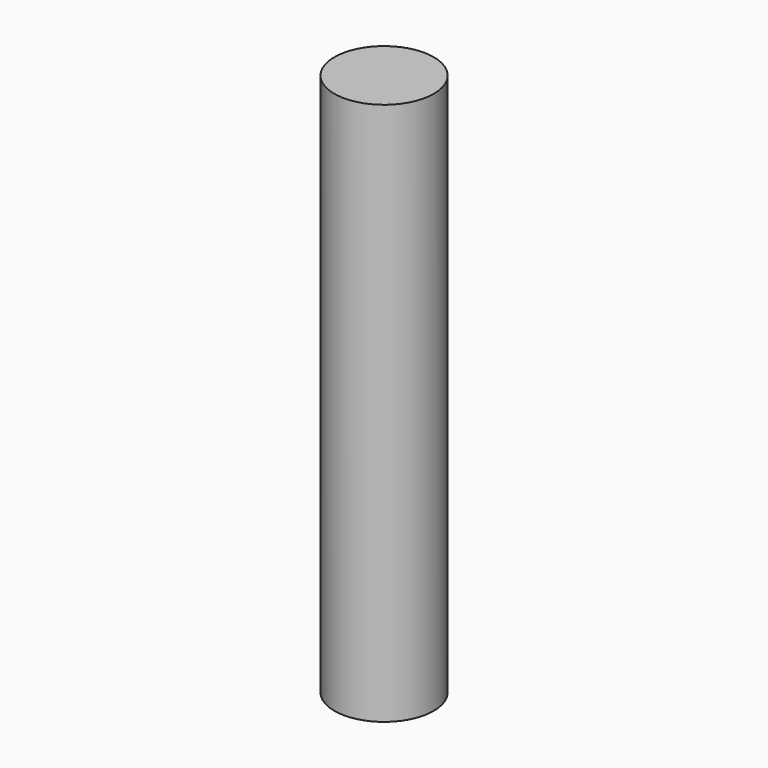
from build123d import *

# Parameters (mm, degrees)
CYLINDER_R     = 1.3716
CYLINDER_DEPTH = 15


with BuildPart() as part:
    # Cylinder → Cylinder (new body)
    with BuildSketch(Plane.XY.offset(-2.5)):
        Circle(CYLINDER_R)
    extrude(amount=CYLINDER_DEPTH)


solid = part.part
